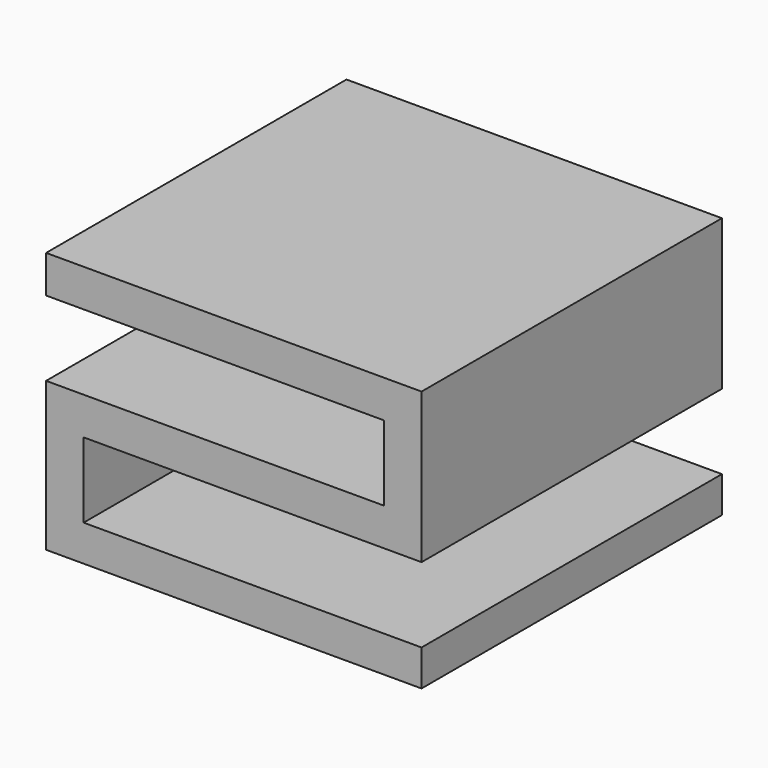
from build123d import *

# Parameters (mm, degrees)
F1_DEPTH = 100
F2_W     = 100.641586
F2_H     = 30.433534
F3_DEPTH = 200


with BuildPart() as f1:
    # F0 (on Front) → F1 (new body)
    with BuildSketch(Plane.XZ):
        Polygon((52.611767, 75.087105), (-47.388233, 75.087105), (-47.388233, 65.087105), (42.611767, 65.087105), (52.611767, 65.087105), align=None)
        Polygon((52.611767, 35.087105), (52.611767, 65.087105), (42.611767, 65.087105), (42.611767, 45.087105), (42.611767, 35.087105), align=None)
        Polygon((42.611767, 35.087105), (42.611767, 45.087105), (-47.388233, 45.087105), (-47.388233, 35.087105), (-37.388233, 35.087105), align=None)
        Polygon((-37.388233, 15.087105), (-37.388233, 35.087105), (-47.388233, 35.087105), (-47.388233, 5.087105), (-37.388233, 5.087105), align=None)
        Polygon((52.611767, 15.087105), (-37.388233, 15.087105), (-37.388233, 5.087105), (42.611767, 5.087105), (52.611767, 5.087105), align=None)
    extrude(amount=F1_DEPTH)

    # F2 (on Front) → F3 (cut)
    with BuildSketch(Plane.XZ):
        with Locations((2.561238, -9.749417)):
            Rectangle(F2_W, F2_H)
    extrude(amount=F3_DEPTH, mode=Mode.SUBTRACT)


solid = f1.part
